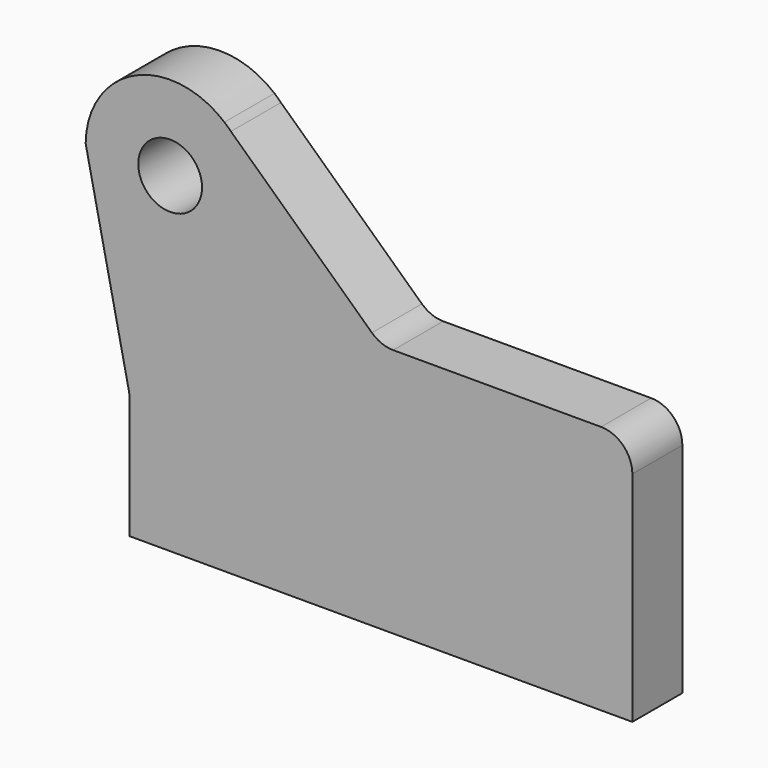
from build123d import *

# Parameters (mm, degrees)
F0_R     = 3.2385
F1_DEPTH = 6.35


with BuildPart() as f1:
    # F0 (on Front) → F1 (new body)
    with BuildSketch(Plane.XZ):
        with BuildLine():
            Line((19.016519, 18.216161), (-2.098458, 18.216161))
            ThreePointArc((-2.098458, 18.216161), (-3.26134, 18.436786), (-4.262609, 19.068))
            Line((-4.262609, 19.068), (-18.587252, 32.412178))
            Line((-18.587252, 32.412178), (-19.245879, 33.025725))
            ThreePointArc((-19.245879, 33.025725), (-28.353882, 34.24271), (-33.345191, 26.527555))
            Line((-33.345191, 26.527555), (-28.95716, 5.867742))
            ThreePointArc((-28.95716, 5.867742), (-28.905248, 5.539737), (-28.887881, 5.208104))
            Line((-28.887881, 5.208104), (-28.887881, -7.133039))
            Line((-28.887881, -7.133039), (22.191519, -7.133039))
            Line((22.191519, -7.133039), (22.191519, 15.041161))
            ThreePointArc((22.191519, 15.041161), (21.261583, 17.286225), (19.016519, 18.216161))
        make_face()
        with Locations((-24.760381, 26.445761)):
            Circle(F0_R, mode=Mode.SUBTRACT)
        with BuildLine():
            Line((-19.245879, 33.025725), (-18.587252, 32.412178))
            ThreePointArc((-18.587252, 32.412178), (-18.908519, 32.72759), (-19.245879, 33.025725))
        make_face()
    extrude(amount=F1_DEPTH)


solid = f1.part
